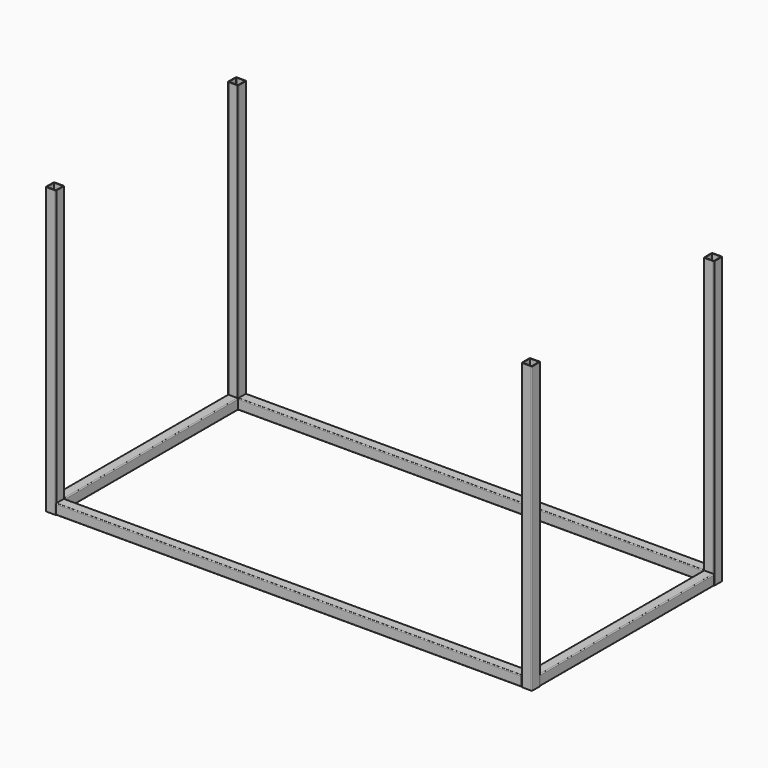
from build123d import *

# Parameters (mm, degrees)
F3_DEPTH = 690
F5_DEPTH = 1125
F7_DEPTH = 525


with BuildPart() as f3:
    # F2 (on Top) → F3 (new body)
    with BuildSketch(Plane.XY):
        with BuildLine():
            Line((-564.5, 287.5), (-585.5, 287.5))
            ThreePointArc((-585.5, 287.5), (-586.9142135624, 286.9142135624), (-587.5, 285.5))
            Line((-587.5, 285.5), (-587.5, 264.5))
            ThreePointArc((-587.5, 264.5), (-586.9142135624, 263.0857864376), (-585.5, 262.5))
            Line((-585.5, 262.5), (-564.5, 262.5))
            ThreePointArc((-564.5, 262.5), (-563.0857864376, 263.0857864376), (-562.5, 264.5))
            Line((-562.5, 264.5), (-562.5, 285.5))
            ThreePointArc((-562.5, 285.5), (-563.0857864376, 286.9142135624), (-564.5, 287.5))
        make_face()
        with BuildLine():
            ThreePointArc((-586, 285.5), (-585.8535533906, 285.8535533906), (-585.5, 286))
            Line((-585.5, 286), (-564.5, 286))
            ThreePointArc((-564.5, 286), (-564.1464466094, 285.8535533906), (-564, 285.5))
            Line((-564, 285.5), (-564, 264.5))
            ThreePointArc((-564, 264.5), (-564.1464466094, 264.1464466094), (-564.5, 264))
            Line((-564.5, 264), (-585.5, 264))
            ThreePointArc((-585.5, 264), (-585.8535533906, 264.1464466094), (-586, 264.5))
            Line((-586, 264.5), (-586, 285.5))
        make_face(mode=Mode.SUBTRACT)
    extrude(amount=F3_DEPTH)


with BuildPart() as f5:
    # F4 (on face) → F5 (new body, through all)
    with BuildSketch(Plane.YZ.offset(-562.5)):
        with BuildLine():
            Line((285.5, 25), (264.5, 25))
            ThreePointArc((264.5, 25), (263.0857864376, 24.4142135624), (262.5, 23))
            Line((262.5, 23), (262.5, 2))
            ThreePointArc((262.5, 2), (263.0857864376, 0.5857864376), (264.5, 0))
            Line((264.5, 0), (285.5, 0))
            ThreePointArc((285.5, 0), (286.9142135624, 0.5857864376), (287.5, 2))
            Line((287.5, 2), (287.5, 23))
            ThreePointArc((287.5, 23), (286.9142135624, 24.4142135624), (285.5, 25))
        make_face()
        with BuildLine():
            ThreePointArc((264, 23), (264.1464466094, 23.3535533906), (264.5, 23.5))
            Line((264.5, 23.5), (285.5, 23.5))
            ThreePointArc((285.5, 23.5), (285.8535533906, 23.3535533906), (286, 23))
            Line((286, 23), (286, 2))
            ThreePointArc((286, 2), (285.8535533906, 1.6464466094), (285.5, 1.5))
            Line((285.5, 1.5), (264.5, 1.5))
            ThreePointArc((264.5, 1.5), (264.1464466094, 1.6464466094), (264, 2))
            Line((264, 2), (264, 23))
        make_face(mode=Mode.SUBTRACT)
    extrude(amount=F5_DEPTH)


with BuildPart() as f7:
    # F6 (on face) → F7 (new body, through all)
    with BuildSketch(Plane.XZ.offset(-262.5)):
        with BuildLine():
            Line((-564.5, 25), (-585.5, 25))
            ThreePointArc((-585.5, 25), (-586.9142135624, 24.4142135624), (-587.5, 23))
            Line((-587.5, 23), (-587.5, 2))
            ThreePointArc((-587.5, 2), (-586.9142135624, 0.5857864376), (-585.5, 0))
            Line((-585.5, 0), (-564.5, 0))
            ThreePointArc((-564.5, 0), (-563.0857864376, 0.5857864376), (-562.5, 2))
            Line((-562.5, 2), (-562.5, 23))
            ThreePointArc((-562.5, 23), (-563.0857864376, 24.4142135624), (-564.5, 25))
        make_face()
        with BuildLine():
            ThreePointArc((-586, 23), (-585.8535533906, 23.3535533906), (-585.5, 23.5))
            Line((-585.5, 23.5), (-564.5, 23.5))
            ThreePointArc((-564.5, 23.5), (-564.1464466094, 23.3535533906), (-564, 23))
            Line((-564, 23), (-564, 2))
            ThreePointArc((-564, 2), (-564.1464466094, 1.6464466094), (-564.5, 1.5))
            Line((-564.5, 1.5), (-585.5, 1.5))
            ThreePointArc((-585.5, 1.5), (-585.8535533906, 1.6464466094), (-586, 2))
            Line((-586, 2), (-586, 23))
        make_face(mode=Mode.SUBTRACT)
    extrude(amount=F7_DEPTH)


with BuildPart() as f8_1:
    # F8: instance of F3
    add(f3.part.mirror(Plane.YZ))


with BuildPart() as f8_2:
    # F8: instance of F7
    add(f7.part.mirror(Plane.YZ))


with BuildPart() as f9_1:
    # F9: instance of F5
    add(f5.part.mirror(Plane.XZ))


with BuildPart() as f9_2:
    # F9: instance of F3
    add(f3.part.mirror(Plane.XZ))


with BuildPart() as f9_3:
    # F9: instance of F8_1
    add(f8_1.part.mirror(Plane.XZ))


solid = Compound([f3.part, f5.part, f7.part, f8_1.part, f8_2.part, f9_1.part, f9_2.part, f9_3.part])
